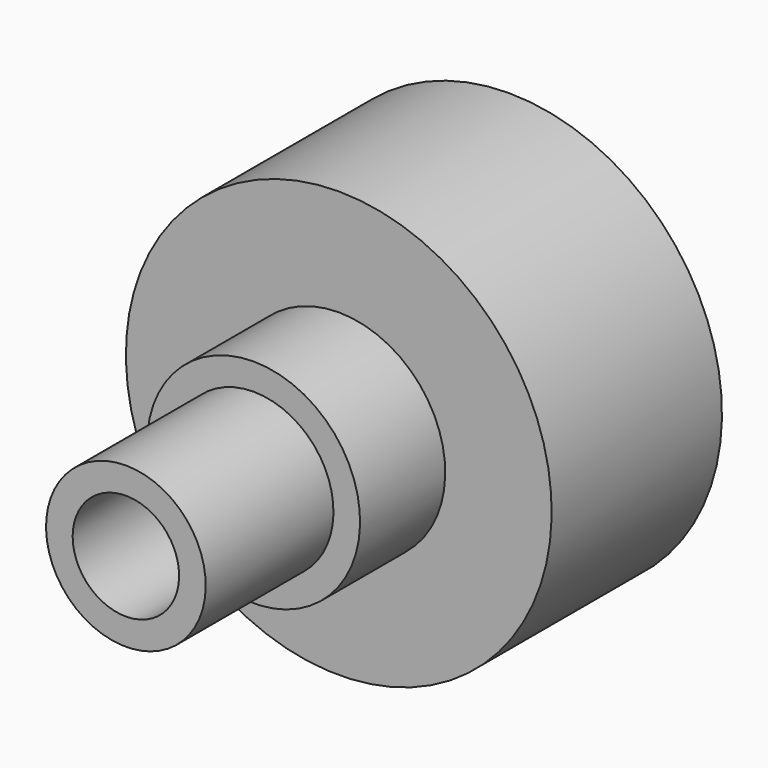
from build123d import *

# Parameters (mm, degrees)
F2_R     = 1
F3_DEPTH = 9.001


with BuildPart() as f1:
    # F0 (on Right) → F1 (revolve)
    with BuildSketch(Plane.YZ):
        Polygon((-9, 0), (0, 0), (0, 4), (-4, 4), (-4, 2), (-6, 2), (-6, 1.5), (-9, 1.5), align=None)
    revolve(axis=Axis((0, -4.5, 0), (0, 1, 0)))

    # F2 (on face) → F3 (cut, through all)
    with BuildSketch(Plane(origin=(0, 0, 0), x_dir=(-1, 0, 0), z_dir=(0, 1, 0))):
        Circle(F2_R)
    extrude(amount=-F3_DEPTH, mode=Mode.SUBTRACT)


solid = f1.part
